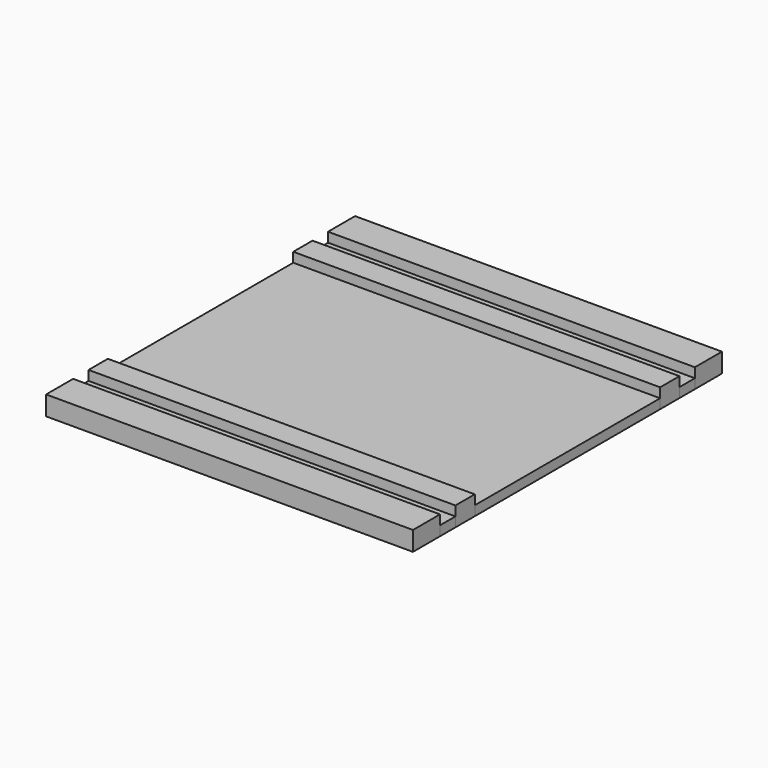
from build123d import *

# Parameters (mm, degrees)
F0_W     = 96.52
F0_H     = 8.89
F0_H_2   = 6.35
F1_DEPTH = 5.08
F0_H_3   = 5.08
F0_H_4   = 60.96
F2_DEPTH = 2.54


with BuildPart() as f1:
    # F0 (on Top) → F1 (new body)
    with BuildSketch(Plane.XY):
        with Locations((0, 46.355)):
            Rectangle(F0_W, F0_H)
        with Locations((0, 33.655)):
            Rectangle(F0_W, F0_H_2)
        with Locations((0, -46.355)):
            Rectangle(F0_W, F0_H)
        with Locations((0, -33.655)):
            Rectangle(F0_W, F0_H_2)
    extrude(amount=F1_DEPTH)


with BuildPart() as f2:
    # F0 (on Top) → F2 (new body)
    with BuildSketch(Plane.XY):
        with Locations((0, 39.37)):
            Rectangle(F0_W, F0_H_3)
        with Locations((0, -39.37)):
            Rectangle(F0_W, F0_H_3)
        Rectangle(F0_W, F0_H_4)
    extrude(amount=F2_DEPTH)


solid = Compound([f1.part, f2.part])
